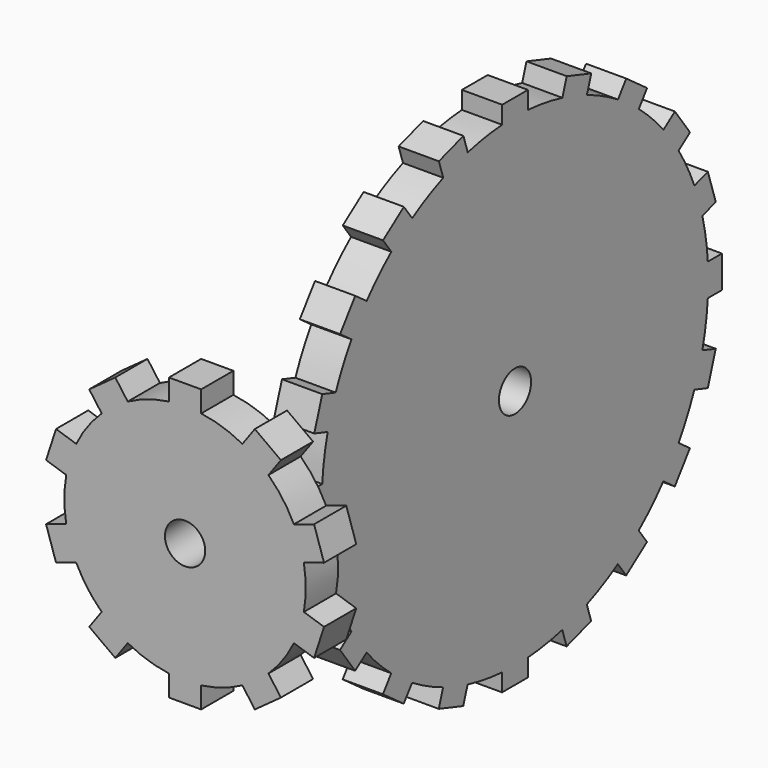
from build123d import *

# Parameters (mm, degrees)
F0_R     = 38.1
F2_DEPTH = 12.7
F3_COUNT = 10
F4_D     = 12.7
F5_R     = 76.2
F7_DEPTH = 12.7
F8_COUNT = 20
F11_D    = 12.7


with BuildPart() as f2:
    # F0 (on Front) + F1 (on face) → F2 (new body)
    with BuildSketch(Plane.XZ):
        Circle(F0_R)
    with BuildSketch(Plane.XZ):
        with BuildLine():
            Line((-5.08, 44.45), (-5.08, 37.7598146182))
            ThreePointArc((-5.08, 37.7598146182), (0, 38.1), (5.08, 37.7598146182))
            Line((5.08, 37.7598146182), (5.08, 44.45))
            Line((5.08, 44.45), (-5.08, 44.45))
        make_face()
    extrude(amount=F2_DEPTH)

    # F3: F2 ×10 about axis
    f3_axis = Axis((0, 0, 0), (0, -1, 0))


with BuildPart() as f2_1:
    add(f2.part)
    for i in range(1, F3_COUNT):
        add(f2.part.rotate(f3_axis, i * 360 / F3_COUNT))

    # F4 (through all)
    with Locations(Plane(origin=(0, 0, 0), x_dir=(1, 0, 0), z_dir=(0, 1, 0))):
        with Locations((0, 0)):
            Hole(F4_D / 2)


with BuildPart() as f7:
    # F5 (on Right) + F6 (on face) → F7 (new body)
    with BuildSketch(Plane.YZ):
        with Locations((101.5440017082, 0)):
            Circle(F5_R)
    with BuildSketch(Plane.YZ):
        with BuildLine():
            Line((96.4895019979, 81.5958976746), (96.4895019979, 76.0321776137))
            ThreePointArc((96.4895019979, 76.0321776137), (101.5695588549, 76.1999957141), (106.6495019979, 76.0287699939))
            Line((106.6495019979, 76.0287699939), (106.6495019979, 81.5958976746))
            Line((106.6495019979, 81.5958976746), (96.4895019979, 81.5958976746))
        make_face()
    extrude(amount=F7_DEPTH)

    # F8: F7 ×20 about axis
    f8_axis = Axis((12.7, 101.5440017082, 0), (1, 0, 0))


with BuildPart() as f7_1:
    add(f7.part)
    for i in range(1, F8_COUNT):
        add(f7.part.rotate(f8_axis, i * 360 / F8_COUNT))

    # F9: union 

    # F11 (through all)
    with Locations(Plane.YZ.offset(12.7)):
        with Locations((101.5440017082, 0)):
            Hole(F11_D / 2)


solid = Compound([f2_1.part, f7_1.part])
